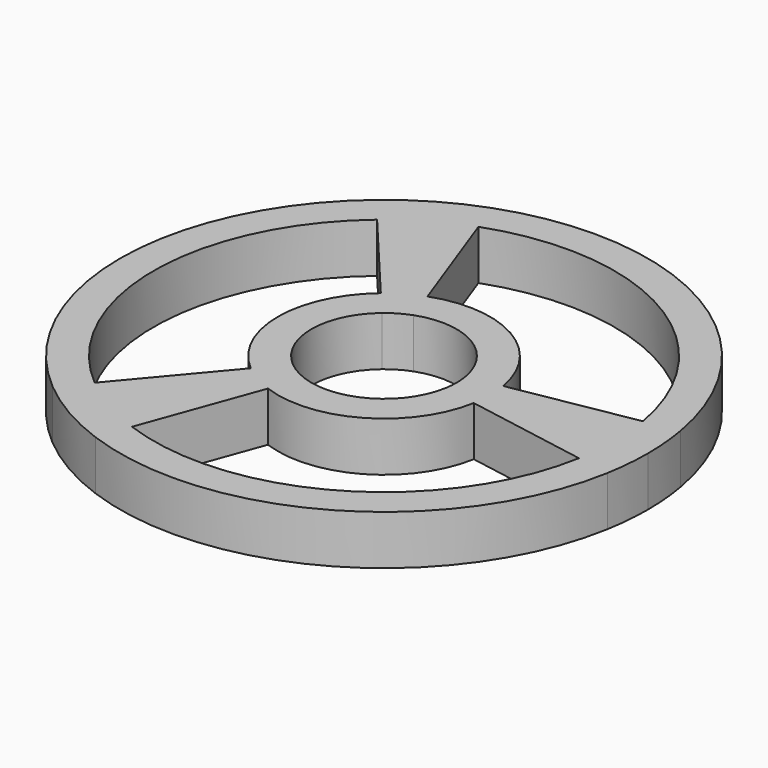
from build123d import *

# Parameters (mm, degrees)
F1_DEPTH = 7.5


with BuildPart() as f1:
    # F0 (on Top) → F1 (new body)
    with BuildSketch(Plane.XY):
        with BuildLine():
            ThreePointArc((-22.4461433303, 26.7502719537), (-17.46, 30.2416071002), (-11.9433434049, 32.8140663178))
            Line((-11.9433434049, 32.8140663178), (-13.680805733, 37.5877048314))
            ThreePointArc((-13.680805733, 37.5877048314), (-20, 34.6410161514), (-25.7115043875, 30.6417777248))
            Line((-25.7115043875, 30.6417777248), (-22.4461433303, 26.7502719537))
        make_face()
        with BuildLine():
            ThreePointArc((-22.4461433303, -26.7502719537), (-34.92, 0), (-22.4461433303, 26.7502719537))
            Line((-22.4461433303, 26.7502719537), (-25.7115043875, 30.6417777248))
            ThreePointArc((-25.7115043875, 30.6417777248), (-40, 0), (-25.7115043875, -30.6417777248))
            Line((-25.7115043875, -30.6417777248), (-22.4461433303, -26.7502719537))
        make_face()
        with BuildLine():
            ThreePointArc((-11.9433434049, 32.8140663178), (17.46, 30.2416071002), (34.3894867352, 6.0637943641))
            Line((34.3894867352, 6.0637943641), (39.3923101205, 6.9459271067))
            ThreePointArc((39.3923101205, 6.9459271067), (20, 34.6410161514), (-13.680805733, 37.5877048314))
            Line((-13.680805733, 37.5877048314), (-11.9433434049, 32.8140663178))
        make_face()
        with BuildLine():
            Line((39.3923101205, 6.9459271067), (34.3894867352, 6.0637943641))
            ThreePointArc((34.3894867352, 6.0637943641), (34.7871188574, 3.0434785367), (34.92, 0))
            ThreePointArc((34.92, 0), (34.7871188574, -3.0434785367), (34.3894867352, -6.0637943641))
            Line((34.3894867352, -6.0637943641), (39.3923101205, -6.9459271067))
            ThreePointArc((39.3923101205, -6.9459271067), (39.8477879237, -3.4862297099), (40, 0))
            ThreePointArc((40, 0), (39.8477879237, 3.4862297099), (39.3923101205, 6.9459271067))
        make_face()
        with BuildLine():
            Line((34.3894867352, 6.0637943641), (15.8357086684, 2.7922626969))
            ThreePointArc((15.8357086684, 2.7922626969), (16.0188107453, 1.4014643434), (16.08, 0))
            ThreePointArc((16.08, 0), (16.0188107453, -1.4014643434), (15.8357086684, -2.7922626969))
            Line((15.8357086684, -2.7922626969), (34.3894867352, -6.0637943641))
            ThreePointArc((34.3894867352, -6.0637943641), (34.7871188574, -3.0434785367), (34.92, 0))
            ThreePointArc((34.92, 0), (34.7871188574, 3.0434785367), (34.3894867352, 6.0637943641))
        make_face()
        with BuildLine():
            ThreePointArc((10.8328852831, 1.9101299543), (10.958141679, 0.9587131702), (11, 0))
            ThreePointArc((11, 0), (10.958141679, -0.9587131702), (10.8328852831, -1.9101299543))
            Line((10.8328852831, -1.9101299543), (15.8357086684, -2.7922626969))
            ThreePointArc((15.8357086684, -2.7922626969), (16.0188107453, -1.4014643434), (16.08, 0))
            ThreePointArc((16.08, 0), (16.0188107453, 1.4014643434), (15.8357086684, 2.7922626969))
            Line((15.8357086684, 2.7922626969), (10.8328852831, 1.9101299543))
        make_face()
        with BuildLine():
            ThreePointArc((-3.7622215766, 10.3366188286), (5.5, 9.5262794416), (10.8328852831, 1.9101299543))
            Line((10.8328852831, 1.9101299543), (15.8357086684, 2.7922626969))
            ThreePointArc((15.8357086684, 2.7922626969), (8.04, 13.9256884929), (-5.4996839047, 15.1102573422))
            Line((-5.4996839047, 15.1102573422), (-3.7622215766, 10.3366188286))
        make_face()
        with BuildLine():
            ThreePointArc((-7.0706637066, 8.4264888743), (-5.5, 9.5262794416), (-3.7622215766, 10.3366188286))
            Line((-3.7622215766, 10.3366188286), (-5.4996839047, 15.1102573422))
            ThreePointArc((-5.4996839047, 15.1102573422), (-8.04, 13.9256884929), (-10.3360247638, 12.3179946454))
            Line((-10.3360247638, 12.3179946454), (-7.0706637066, 8.4264888743))
        make_face()
        with BuildLine():
            ThreePointArc((-10.3360247638, 12.3179946454), (-8.04, 13.9256884929), (-5.4996839047, 15.1102573422))
            Line((-5.4996839047, 15.1102573422), (-11.9433434049, 32.8140663178))
            ThreePointArc((-11.9433434049, 32.8140663178), (-17.46, 30.2416071002), (-22.4461433303, 26.7502719537))
            Line((-22.4461433303, 26.7502719537), (-10.3360247638, 12.3179946454))
        make_face()
        with BuildLine():
            ThreePointArc((-7.0706637066, -8.4264888743), (-11, 0), (-7.0706637066, 8.4264888743))
            Line((-7.0706637066, 8.4264888743), (-10.3360247638, 12.3179946454))
            ThreePointArc((-10.3360247638, 12.3179946454), (-16.08, 0), (-10.3360247638, -12.3179946454))
            Line((-10.3360247638, -12.3179946454), (-7.0706637066, -8.4264888743))
        make_face()
        with BuildLine():
            Line((-5.4996839047, -15.1102573422), (-3.7622215766, -10.3366188286))
            ThreePointArc((-3.7622215766, -10.3366188286), (-5.5, -9.5262794416), (-7.0706637066, -8.4264888743))
            Line((-7.0706637066, -8.4264888743), (-10.3360247638, -12.3179946454))
            ThreePointArc((-10.3360247638, -12.3179946454), (-8.04, -13.9256884929), (-5.4996839047, -15.1102573422))
        make_face()
        with BuildLine():
            Line((15.8357086684, -2.7922626969), (10.8328852831, -1.9101299543))
            ThreePointArc((10.8328852831, -1.9101299543), (5.5, -9.5262794416), (-3.7622215766, -10.3366188286))
            Line((-3.7622215766, -10.3366188286), (-5.4996839047, -15.1102573422))
            ThreePointArc((-5.4996839047, -15.1102573422), (8.04, -13.9256884929), (15.8357086684, -2.7922626969))
        make_face()
        with BuildLine():
            Line((-11.9433434049, -32.8140663178), (-5.4996839047, -15.1102573422))
            ThreePointArc((-5.4996839047, -15.1102573422), (-8.04, -13.9256884929), (-10.3360247638, -12.3179946454))
            Line((-10.3360247638, -12.3179946454), (-22.4461433303, -26.7502719537))
            ThreePointArc((-22.4461433303, -26.7502719537), (-17.46, -30.2416071002), (-11.9433434049, -32.8140663178))
        make_face()
        with BuildLine():
            Line((-13.680805733, -37.5877048314), (-11.9433434049, -32.8140663178))
            ThreePointArc((-11.9433434049, -32.8140663178), (-17.46, -30.2416071002), (-22.4461433303, -26.7502719537))
            Line((-22.4461433303, -26.7502719537), (-25.7115043875, -30.6417777248))
            ThreePointArc((-25.7115043875, -30.6417777248), (-20, -34.6410161514), (-13.680805733, -37.5877048314))
        make_face()
        with BuildLine():
            Line((39.3923101205, -6.9459271067), (34.3894867352, -6.0637943641))
            ThreePointArc((34.3894867352, -6.0637943641), (17.46, -30.2416071002), (-11.9433434049, -32.8140663178))
            Line((-11.9433434049, -32.8140663178), (-13.680805733, -37.5877048314))
            ThreePointArc((-13.680805733, -37.5877048314), (20, -34.6410161514), (39.3923101205, -6.9459271067))
        make_face()
    extrude(amount=F1_DEPTH)


solid = f1.part
